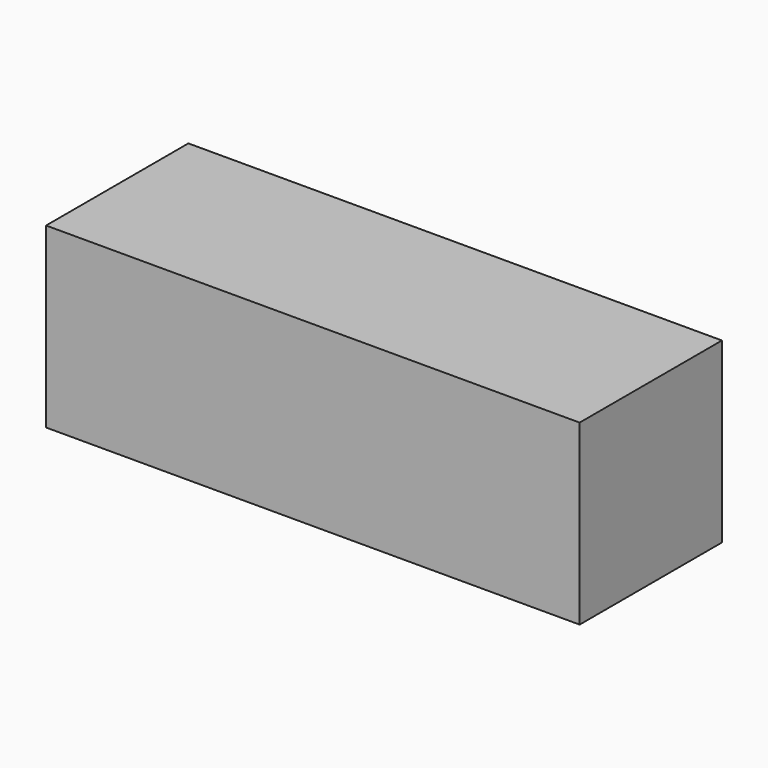
from build123d import *

# Parameters (mm, degrees)
SKETCH_W      = 150
SKETCH_H      = 50
EXTRUDE_DEPTH = 50


with BuildPart() as part:
    # Sketch → Extrude (new body)
    with BuildSketch(Plane.XY):
        Rectangle(SKETCH_W, SKETCH_H)
    extrude(amount=EXTRUDE_DEPTH)


solid = part.part
